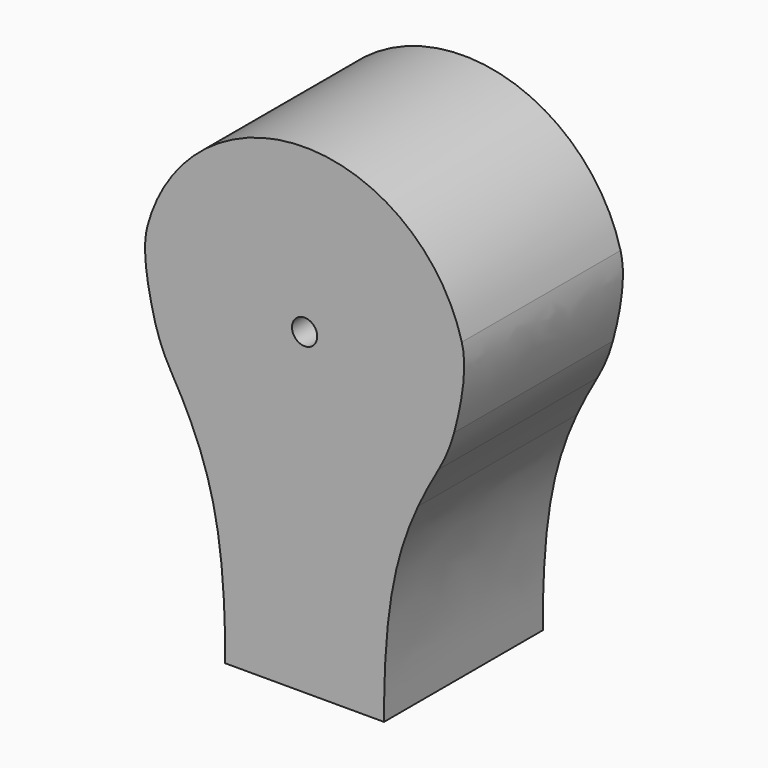
from build123d import *

# Parameters (mm, degrees)
F1_DEPTH = 25
F2_R     = 1.5875
F3_DEPTH = 25


with BuildPart() as f1:
    # F0 (on Front) → F1 (new body)
    with BuildSketch(Plane.XZ):
        with BuildLine():
            ThreePointArc((-17.7535207776, 10.25), (-18.9395304165, 7.8450103635), (-19.8014794389, 5.3057904246))
            add(Edge.make_bspline(
                [(-19.8014794389, 5.3057904246), (-20.454122155, 2.8700946489), (-19.9763700286, -0.7893865531), (-18.8355536126, -5.0469713795)],
                knots=[0, 0, 0, 0, 10.3977252163, 10.3977252163, 10.3977252163, 10.3977252163], degree=3))
            ThreePointArc((-18.8355536126, -5.0469713795), (-19.3331747968, 2.5452607483), (-16.8874953738, 9.75))
            Line((-16.8874953738, 9.75), (-17.7535207776, 10.25))
        make_face()
        with BuildLine():
            add(Edge.make_bspline(
                [(19.8014794389, 5.3057904246), (20.454122155, 2.8700946489), (19.9763700286, -0.7893865531), (18.8355536126, -5.0469713795)],
                knots=[0, 0, 0, 0, 10.3977252163, 10.3977252163, 10.3977252163, 10.3977252163], degree=3))
            ThreePointArc((19.8014794389, 5.3057904246), (2.6757869405, 20.3246196582), (-17.7535207776, 10.25))
            Line((-17.7535207776, 10.25), (-16.8874953738, 9.75))
            ThreePointArc((-16.8874953738, 9.75), (5.0469713795, 18.8355536126), (19.5, 0))
            ThreePointArc((19.5, 0), (19.3331747968, -2.5452607483), (18.8355536126, -5.0469713795))
        make_face()
        with BuildLine():
            ThreePointArc((-16.8874953738, -9.75), (0, -19.5), (16.8874953738, -9.75))
            ThreePointArc((16.8874953738, -9.75), (18.015650884, -7.4623269311), (18.8355536126, -5.0469713795))
            ThreePointArc((18.8355536126, -5.0469713795), (19.3331747968, -2.5452607483), (19.5, 0))
            ThreePointArc((19.5, 0), (5.0469713795, 18.8355536126), (-16.8874953738, 9.75))
            ThreePointArc((-16.8874953738, 9.75), (-19.3331747968, 2.5452607483), (-18.8355536126, -5.0469713795))
            ThreePointArc((-18.8355536126, -5.0469713795), (-18.015650884, -7.4623269311), (-16.8874953738, -9.75))
        make_face()
        with BuildLine():
            add(Edge.make_bspline(
                [(-16.8874953738, -9.75), (-15.9041162308, -11.4532626388), (-15.0411330668, -13.0764351646), (-14.2892263879, -14.6992519958)],
                knots=[0, 0, 0, 0, 6.1017074107, 6.1017074107, 6.1017074107, 6.1017074107], degree=3))
            ThreePointArc((-14.2892263879, -14.6992519958), (-0.3862841846, -20.4963602751), (13.7252177136, -15.2272255751))
            Line((13.7252177136, -15.2272255751), (16.8874953738, -9.75))
            ThreePointArc((16.8874953738, -9.75), (0, -19.5), (-16.8874953738, -9.75))
        make_face()
        with BuildLine():
            Line((-10, -40), (10, -40))
            add(Edge.make_bspline(
                [(14.2892263879, -14.6992519958), (11.2180568693, -21.327661778), (10, -27.950137429), (10, -40)],
                knots=[6.1017074107, 6.1017074107, 6.1017074107, 6.1017074107, 31.0241856061, 31.0241856061, 31.0241856061, 31.0241856061], degree=3))
            ThreePointArc((14.2892263879, -14.6992519958), (14.0097094404, -14.9658959436), (13.7252177136, -15.2272255751))
            ThreePointArc((13.7252177136, -15.2272255751), (-0.3862841846, -20.4963602751), (-14.2892263879, -14.6992519958))
            add(Edge.make_bspline(
                [(-14.2892263879, -14.6992519958), (-11.2180568693, -21.327661778), (-10, -27.950137429), (-10, -40)],
                knots=[6.1017074107, 6.1017074107, 6.1017074107, 6.1017074107, 31.0241856061, 31.0241856061, 31.0241856061, 31.0241856061], degree=3))
        make_face()
        with BuildLine():
            ThreePointArc((13.7252177136, -15.2272255751), (14.0097094404, -14.9658959436), (14.2892263879, -14.6992519958))
            add(Edge.make_bspline(
                [(16.8874953738, -9.75), (15.9041162308, -11.4532626388), (15.0411330668, -13.0764351646), (14.2892263879, -14.6992519958)],
                knots=[0, 0, 0, 0, 6.1017074107, 6.1017074107, 6.1017074107, 6.1017074107], degree=3))
            Line((16.8874953738, -9.75), (13.7252177136, -15.2272255751))
        make_face()
    extrude(amount=F1_DEPTH)

    # F2 (on face) → F3 (cut)
    with BuildSketch(Plane.XZ.offset(25)):
        Circle(F2_R)
    extrude(amount=-F3_DEPTH, mode=Mode.SUBTRACT)


solid = f1.part
